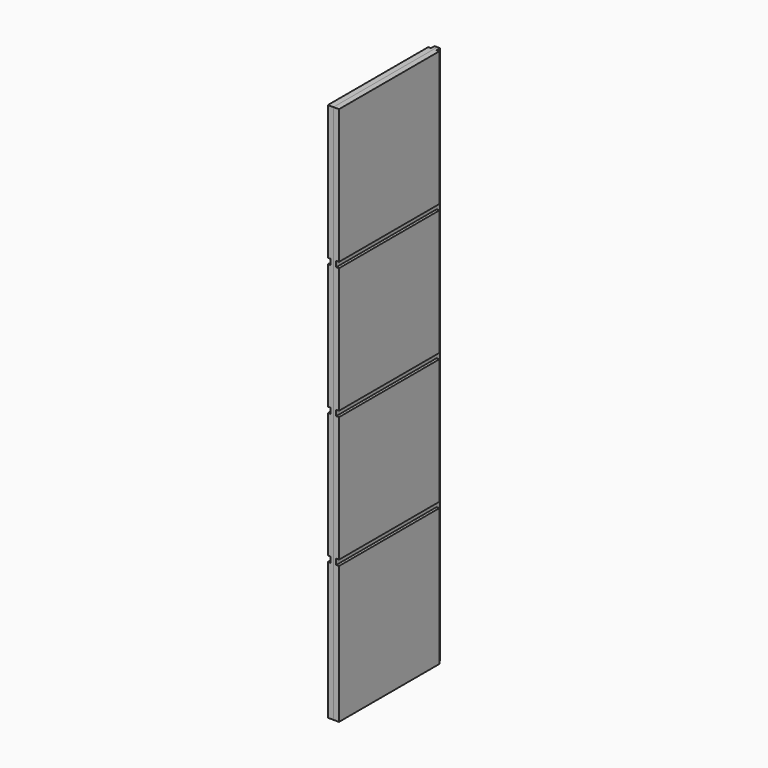
from build123d import *

# Parameters (mm, degrees)
F0_W     = 15.875
F0_H     = 368.3
F1_DEPTH = 1528.7625
F2_W     = 7.9375
F2_H     = 15.875
F3_DEPTH = 368.3
F4_W     = 12.7
F4_H     = 1528.7625
F5_DEPTH = 7.9375


with BuildPart() as f1:
    # F0 (on Top) → F1 (new body)
    with BuildSketch(Plane.XY):
        with Locations((-7.9375, 184.15)):
            Rectangle(F0_W, F0_H)
    extrude(amount=F1_DEPTH)

    # F2 (on face) → F3 (cut, through all)
    with BuildSketch(Plane.XZ):
        with Locations((-3.96875, 396.875)):
            Rectangle(F2_W, F2_H)
        with Locations((-3.96875, 768.35)):
            Rectangle(F2_W, F2_H)
        with Locations((-3.96875, 1139.825)):
            Rectangle(F2_W, F2_H)
    extrude(amount=-F3_DEPTH, mode=Mode.SUBTRACT)

    # F4 (on face) → F5 (cut)
    with BuildSketch(Plane.YZ):
        with Locations((361.95, 764.38125)):
            Rectangle(F4_W, F4_H)
        with Locations((361.95, 764.38125)):
            Rectangle(F4_W, F4_H)
    extrude(amount=-F5_DEPTH, mode=Mode.SUBTRACT)


with BuildPart() as f6_1:
    # F6: instance of F1
    add(f1.part.mirror(Plane(origin=(-15.875, 184.15, 764.38125), x_dir=(0, -1, 0), z_dir=(-1, 0, 0))))


solid = Compound([f1.part, f6_1.part])
